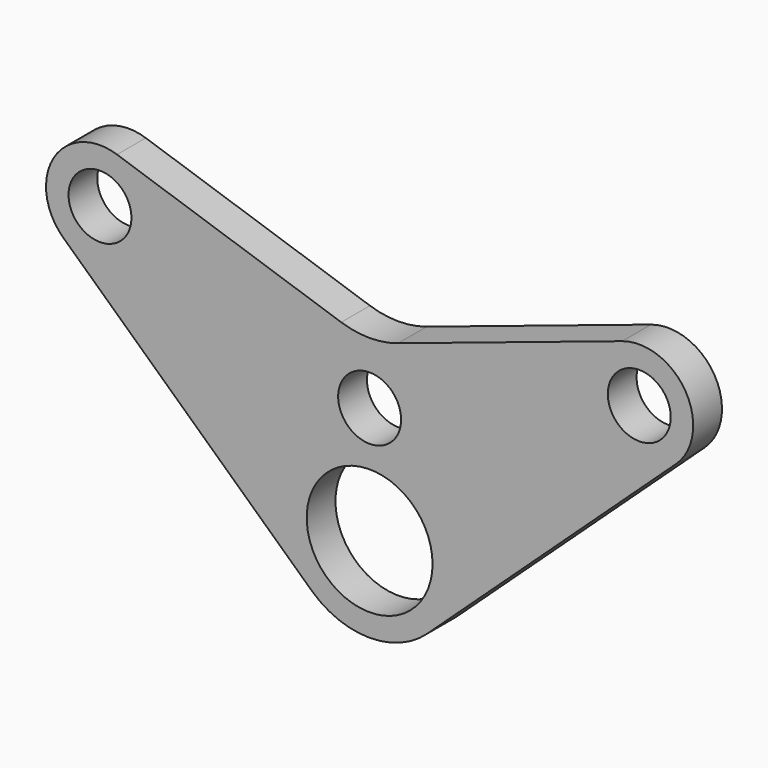
from build123d import *

# Parameters (mm, degrees)
F0_R     = 3.5
F0_R_2   = 1.75
F1_DEPTH = 2


with BuildPart() as f1:
    # F0 (on Front) → F1 (new body)
    with BuildSketch(Plane.XZ):
        with BuildLine():
            Line((3.226656, -12.951423), (17.037888, -0.16716))
            ThreePointArc((17.037888, -0.16716), (17.581911, 3.562089), (14.051317, 4.880483))
            Line((14.051317, 4.880483), (1.581139, 0.723757))
            ThreePointArc((1.581139, 0.723757), (0, 0.467174), (-1.581139, 0.723757))
            Line((-1.581139, 0.723757), (-14.051317, 4.880483))
            ThreePointArc((-14.051317, 4.880483), (-17.584393, 3.557904), (-17.030756, -0.173762))
            Line((-17.030756, -0.173762), (-3.226656, -12.951423))
            ThreePointArc((-3.226656, -12.951423), (0, -14.215567), (3.226656, -12.951423))
        make_face()
        with Locations((0, -9.465567)):
            Circle(F0_R, mode=Mode.SUBTRACT)
        with Locations((-15, 2.034433)):
            Circle(F0_R_2, mode=Mode.SUBTRACT)
        with Locations((0, -2.965567)):
            Circle(F0_R_2, mode=Mode.SUBTRACT)
        with Locations((15, 2.034433)):
            Circle(F0_R_2, mode=Mode.SUBTRACT)
    extrude(amount=F1_DEPTH)


solid = f1.part
